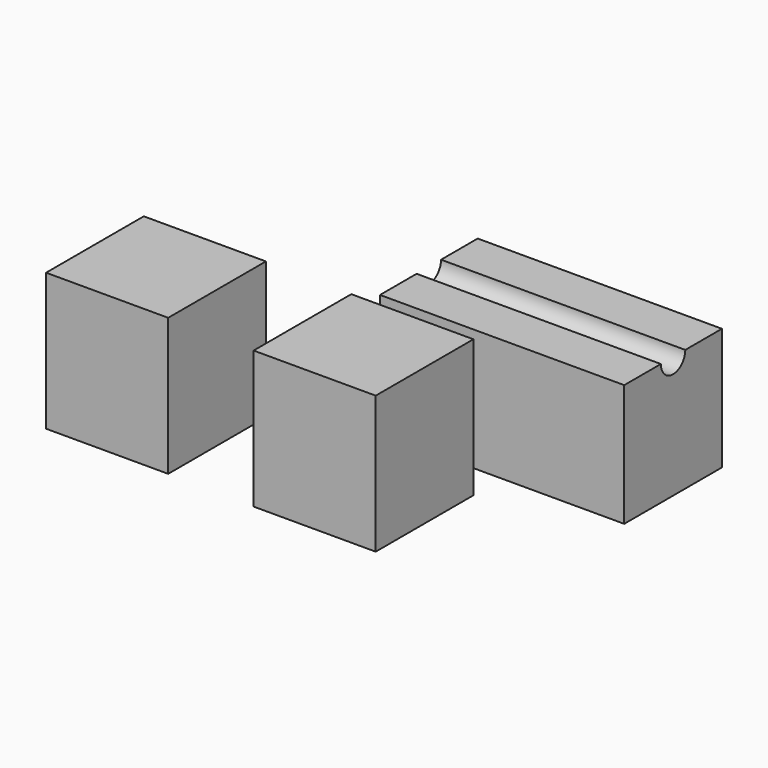
from build123d import *

# Parameters (mm, degrees)
F0_W     = 80
F0_H     = 40
F1_DEPTH = 40
F2_R     = 5
F3_DEPTH = 80
F4_W     = 40
F4_H     = 40
F5_DEPTH = 45


with BuildPart() as f1:
    # F0 (on Top) → F1 (new body)
    with BuildSketch(Plane.XY):
        with Locations((40, 20)):
            Rectangle(F0_W, F0_H)
    extrude(amount=F1_DEPTH)

    # F2 (on face) → F3 (cut)
    with BuildSketch(Plane.YZ.offset(80)):
        with Locations((20, 40)):
            Circle(F2_R)
    extrude(amount=-F3_DEPTH, mode=Mode.SUBTRACT)


with BuildPart() as f5:
    # F4 (on Top) → F5 (new body)
    with BuildSketch(Plane.XY):
        with Locations((20, -31.755678)):
            Rectangle(F4_W, F4_H)
        with Locations((-48.388003, -31.237728)):
            Rectangle(F4_W, F4_H)
    extrude(amount=F5_DEPTH)


solid = Compound([f1.part, f5.part])
